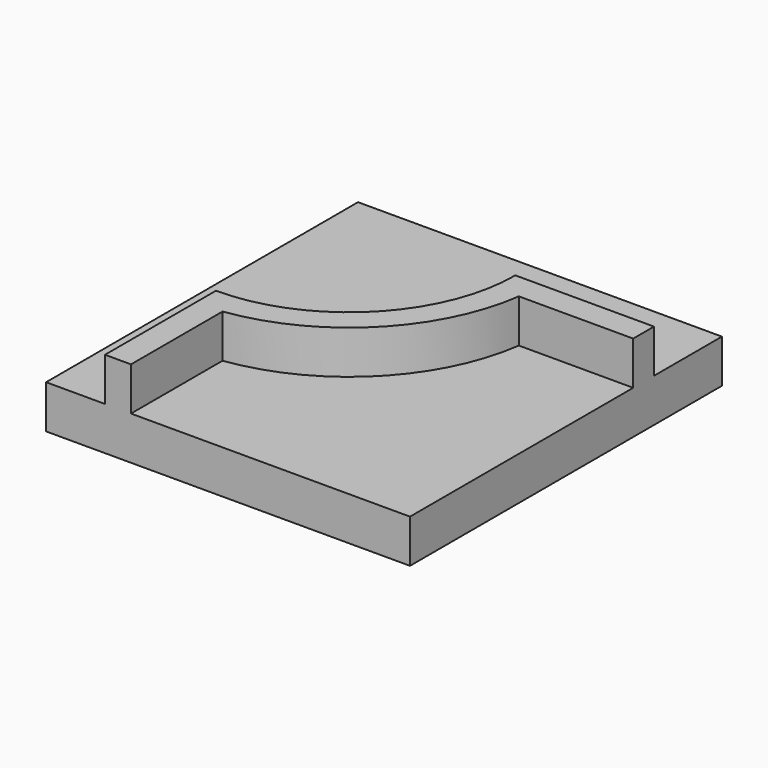
from build123d import *

# Parameters (mm, degrees)
F0_W     = 210
F0_H     = 225
F1_DEPTH = 25
F3_DEPTH = 25


with BuildPart() as f1:
    # F0 (on Top) → F1 (new body)
    with BuildSketch(Plane.XY):
        Rectangle(F0_W, F0_H)
    extrude(amount=F1_DEPTH)

    # F2 (on face) → F3 (join)
    with BuildSketch(Plane.XY.offset(25)):
        with BuildLine():
            Line((-71, -32.5), (-71, -112.5))
            Line((-71, -112.5), (-56, -112.5))
            Line((-56, -112.5), (-56, -46.481817))
            ThreePointArc((-56, -46.481817), (7.488853, -14.988853), (38.981817, 48.5))
            Line((38.981817, 48.5), (105, 48.5))
            Line((105, 48.5), (105, 63.5))
            Line((105, 63.5), (25, 63.5))
            ThreePointArc((25, 63.5), (-3.117749, -4.382251), (-71, -32.5))
        make_face()
    extrude(amount=F3_DEPTH)


solid = f1.part
